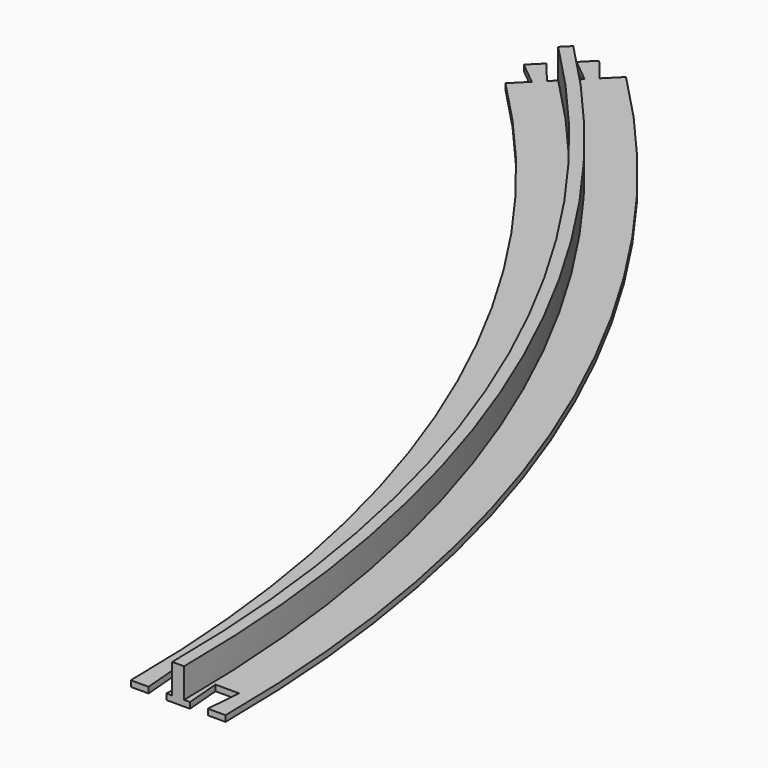
from build123d import *

# Parameters (mm, degrees)
POCKET_DEPTH      = 0.001
POCKET_DEPTH_BACK = 6.001
PAD_DEPTH         = 1


with BuildPart() as part:
    # AdditivePipe: sweep along a path in Sketch
    with BuildLine(Plane.XY) as additivepipe_path:
        ThreePointArc((240, 0), (221.731088, 91.844024), (169.705627, 169.705627))
    # Sketch001 → AdditivePipe (sweep)
    with BuildSketch(Plane(origin=(240, 0, 0), x_dir=(1, 0, 0), z_dir=(0, -1, 0))):
        Polygon((-8, 0), (8, 0), (8, 1), (1, 1), (1, 6), (-1, 6), (-1, 1), (-8, 1), align=None)
    sweep(path=additivepipe_path.line, is_frenet=True)

    # Sketch002 → Pocket (cut, two sides)
    with BuildSketch(Plane.XY) as pocket_sk:
        Polygon((235, 0), (234.5, 6), (238.5, 6), (238, 0), align=None)
        Polygon((242, 0), (241.5, 6), (245.5, 6), (245, 0), align=None)
    extrude(amount=-POCKET_DEPTH, mode=Mode.SUBTRACT)
    extrude(pocket_sk.sketch, amount=POCKET_DEPTH_BACK, mode=Mode.SUBTRACT)

    # Sketch003 → Pad (join)
    with BuildSketch(Plane.XY):
        Polygon((162.63456, 169.705627), (164.75588, 171.826948), (167.937861, 167.937861), (166.523647, 166.523647), align=None)
        Polygon((169.705627, 176.776695), (167.584307, 174.655375), (171.473394, 171.473394), (172.887608, 172.887608), align=None)
    extrude(amount=PAD_DEPTH)


solid = part.part
